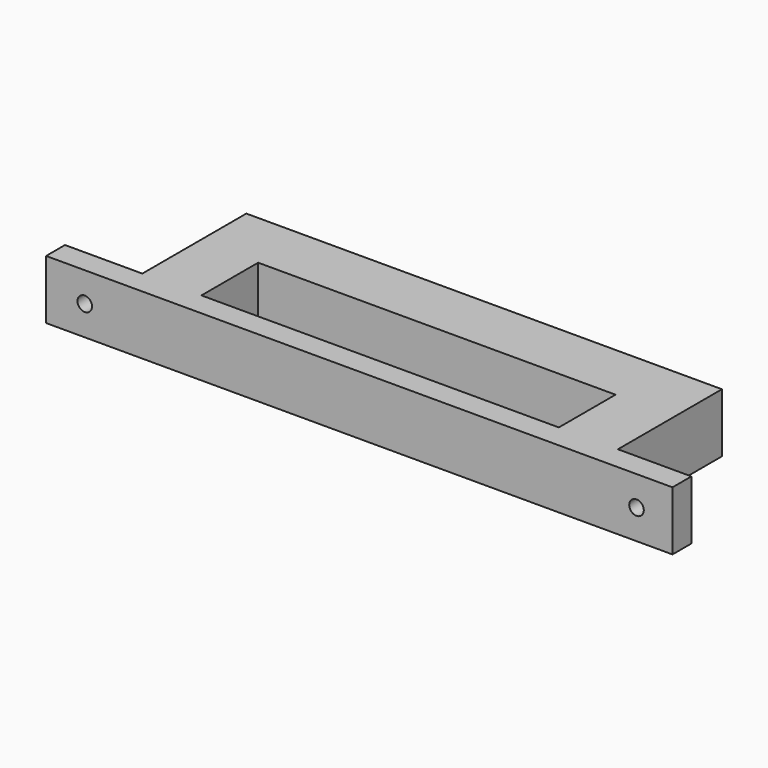
from build123d import *

# Parameters (mm, degrees)
F0_W     = 134.62
F0_H     = 12.7
F1_DEPTH = 5.08
F2_W     = 12.7
F2_H     = 12.7
F3_DEPTH = 27.94
F4_W     = 12.7
F4_H     = 12.7
F5_DEPTH = 99.314
F6_R     = 1.5621
F7_DEPTH = 25.4
F8_R     = 1.5621
F9_DEPTH = 25.4


with BuildPart() as f1:
    # F0 (on Front) → F1 (new body)
    with BuildSketch(Plane.XZ):
        Rectangle(F0_W, F0_H)
    extrude(amount=F1_DEPTH)

    # F2 (on face) → F3 (join)
    with BuildSketch(Plane(origin=(0, 0, 0), x_dir=(-1, 0, 0), z_dir=(0, 1, 0))):
        with Locations((-45.16723, 0)):
            Rectangle(F2_W, F2_H)
        with Locations((44.340361, 0)):
            Rectangle(F2_W, F2_H)
    extrude(amount=F3_DEPTH)

    # F4 (on face) → F5 (join)
    with BuildSketch(Plane(origin=(-50.690361, 0, 0), x_dir=(0, -1, 0), z_dir=(-1, 0, 0))):
        with Locations((-21.59, 0)):
            Rectangle(F4_W, F4_H)
    extrude(amount=-F5_DEPTH)

    # F6 (on face) → F7 (cut)
    with BuildSketch(Plane(origin=(0, 0, 0), x_dir=(-1, 0, 0), z_dir=(0, 1, 0))):
        with Locations((-59.575792, 0)):
            Circle(F6_R)
    extrude(amount=-F7_DEPTH, mode=Mode.SUBTRACT)

    # F8 (on face) → F9 (cut)
    with BuildSketch(Plane(origin=(0, 0, 0), x_dir=(-1, 0, 0), z_dir=(0, 1, 0))):
        with Locations((59.000183, 0)):
            Circle(F8_R)
    extrude(amount=-F9_DEPTH, mode=Mode.SUBTRACT)


solid = f1.part
